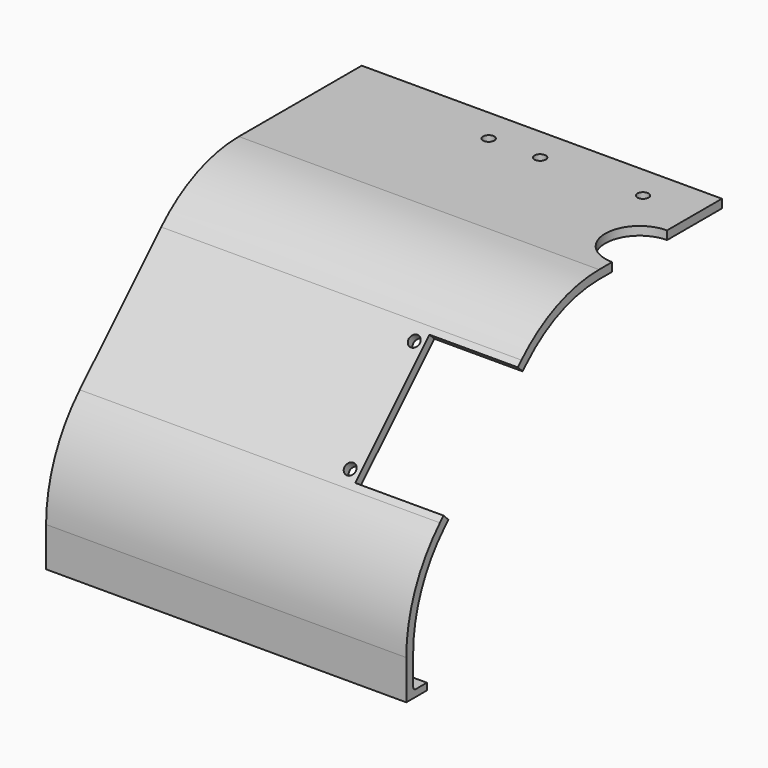
from build123d import *

# Parameters (mm, degrees)
PAD_DEPTH            = 105
PAD_DEPTH_BACK       = 105
SKETCH001_R          = 1.65
SKETCH001_W          = 38.25
SKETCH001_H          = 51.5
POCKET_DEPTH         = 101.705966
SKETCH003_R          = 1.65
POCKET001_DEPTH      = 5
SKETCH004_W          = 2
SKETCH004_H          = 210
PAD001_DEPTH         = 5
FILLET_R             = 1
SKETCH005_R          = 10
POCKET002_DEPTH      = 5
SKETCH006_W          = 110
SKETCH006_H          = 90
POCKET003_DEPTH      = 100
POCKET003_DEPTH_BACK = -72


with BuildPart() as part:
    # Sketch → Pad (new body, two sides)
    with BuildSketch(Plane.YZ) as pad_sk:
        with BuildLine():
            Line((12.736792, 82.5), (57.500792, 82.5))
            Line((57.500792, 82.5), (57.500792, 80))
            Line((57.500792, 80), (12.736792, 80))
            ThreePointArc((12.736792, 80), (-1.613837, 77.145482), (-13.779712, 69.016504))
            Line((-13.779712, 69.016504), (-43.478197, 39.318019))
            ThreePointArc((-43.478197, 39.318019), (-52.006167, 26.55501), (-55.000792, 11.500014))
            Line((-55.000792, 11.500014), (-55.000792, 0))
            Line((-55.000792, 0), (-57.500792, 0))
            Line((-57.500792, 11.500014), (-57.500792, 0))
            ThreePointArc((-45.245964, 41.085786), (-54.315866, 27.511719), (-57.500792, 11.500014))
            Line((-15.547479, 70.784271), (-45.245964, 41.085786))
            ThreePointArc((12.736792, 82.5), (-2.570545, 79.455181), (-15.547479, 70.784271))
        make_face()
    extrude(amount=PAD_DEPTH)
    extrude(pad_sk.sketch, amount=-PAD_DEPTH_BACK)

    # Sketch001 (on Face12 of Pad) → Pocket (cut, through all)
    with BuildSketch(Plane(origin=(0, -43.165875, 43.165875), x_dir=(0, -0.707107, -0.707107), z_dir=(0, -0.707107, 0.707107))):
        with Locations((-34.55831, 28.7)):
            Circle(SKETCH001_R)
        with Locations((-1.55831, 28.7)):
            Circle(SKETCH001_R)
        with Locations((-34.55831, -28.7)):
            Circle(SKETCH001_R)
        with Locations((-1.55831, -28.7)):
            Circle(SKETCH001_R)
        with Locations((-18.05831, 0)):
            Rectangle(SKETCH001_W, SKETCH001_H)
    extrude(amount=-POCKET_DEPTH, mode=Mode.SUBTRACT)

    # Sketch003 (on Face2 of Pocket) → Pocket001 (cut)
    with BuildSketch(Plane(origin=(0, 0, 82.5), x_dir=(0, -1, 0), z_dir=(0, 0, 1))):
        with Locations((-47.500792, 15)):
            Circle(SKETCH003_R)
        with Locations((-47.500792, 45)):
            Circle(SKETCH003_R)
        with Locations((-47.500792, -15)):
            Circle(SKETCH003_R)
        with Locations((-47.500792, -45)):
            Circle(SKETCH003_R)
        with Locations((-47.500792, 60)):
            Circle(SKETCH003_R)
        with Locations((-47.500792, -60)):
            Circle(SKETCH003_R)
    extrude(amount=-POCKET001_DEPTH, mode=Mode.SUBTRACT)

    # Sketch004 (on Face26 of Pocket001) → Pad001 (join)
    with BuildSketch(Plane.ZX.offset(-55.000792)):
        with Locations((1, 0)):
            Rectangle(SKETCH004_W, SKETCH004_H)
    extrude(amount=PAD001_DEPTH)

    # Fillet
    fillet_edges = [part.edges().sort_by_distance(p)[0] for p in [
        (0, -55.000792, 2),
    ]]
    fillet(fillet_edges, radius=FILLET_R)

    # Sketch005 (on Face15 of Fillet) → Pocket002 (cut)
    with BuildSketch(Plane(origin=(0, 0, 82.5), x_dir=(0, -1, 0), z_dir=(0, 0, 1))):
        with Locations((-27.500792, 0)):
            Circle(SKETCH005_R)
    extrude(amount=-POCKET002_DEPTH, mode=Mode.SUBTRACT)

    # Sketch006 → Pocket003 (cut, two sides)
    with BuildSketch(Plane.XZ) as pocket003_sk:
        with Locations((55, 45)):
            Rectangle(SKETCH006_W, SKETCH006_H)
    extrude(amount=-POCKET003_DEPTH, mode=Mode.SUBTRACT)
    extrude(pocket003_sk.sketch, amount=-POCKET003_DEPTH_BACK, mode=Mode.SUBTRACT)


solid = part.part
